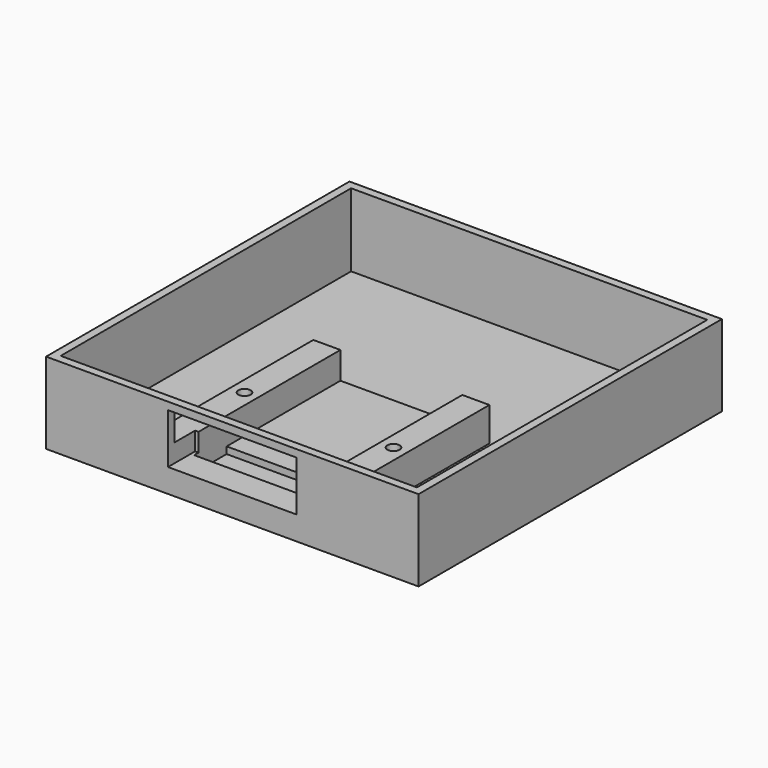
from build123d import *

# Parameters (mm, degrees)
SKETCH_W        = 55
SKETCH_H        = 56
PAD_DEPTH       = 12
SKETCH012_W     = 52.6
SKETCH012_H     = 53.6
POCKET_DEPTH    = 10.8
SKETCH013_W     = 26
SKETCH013_H     = 30
PAD010_DEPTH    = 5
SKETCH014_W     = 18
SKETCH014_H     = 6
POCKET001_DEPTH = 5
SKETCH015_W     = 18
SKETCH015_H     = 22
POCKET002_DEPTH = 4
SKETCH016_W     = 19
SKETCH016_H     = 7.4
POCKET003_DEPTH = 5
SKETCH017_R     = 0.9
POCKET004_DEPTH = 4


with BuildPart() as part:
    # Sketch → Pad (new body)
    with BuildSketch(Plane.XY):
        Rectangle(SKETCH_W, SKETCH_H)
    extrude(amount=PAD_DEPTH)

    # Sketch012 (on Face6 of Pad) → Pocket (cut)
    with BuildSketch(Plane.XY.offset(12)):
        Rectangle(SKETCH012_W, SKETCH012_H)
    extrude(amount=-POCKET_DEPTH, mode=Mode.SUBTRACT)

    # Sketch013 (on Face11 of Pocket) → Pad010 (join)
    with BuildSketch(Plane.XY.offset(1.2)):
        with Locations((0, -11.8)):
            Rectangle(SKETCH013_W, SKETCH013_H)
    extrude(amount=PAD010_DEPTH)

    # Sketch014 (on Face13 of Pad010) → Pocket001 (cut)
    with BuildSketch(Plane.XY.offset(6.2)):
        with Locations((0, -20.8)):
            Rectangle(SKETCH014_W, SKETCH014_H)
    extrude(amount=-POCKET001_DEPTH, mode=Mode.SUBTRACT)

    # Sketch015 (on Face13 of Pocket001) → Pocket002 (cut)
    with BuildSketch(Plane.XY.offset(6.2)):
        with Locations((0, -6.8)):
            Rectangle(SKETCH015_W, SKETCH015_H)
    extrude(amount=-POCKET002_DEPTH, mode=Mode.SUBTRACT)

    # Sketch016 (on Face6 of Pocket002) → Pocket003 (cut)
    with BuildSketch(Plane.XZ.offset(28)):
        with Locations((0, 7.2)):
            Rectangle(SKETCH016_W, SKETCH016_H)
    extrude(amount=-POCKET003_DEPTH, mode=Mode.SUBTRACT)

    # Sketch017 (on DatumPlane) → Pocket004 (cut)
    with BuildSketch(Plane.XY.offset(6.2)):
        with Locations((-11, -12)):
            Circle(SKETCH017_R)
        with Locations((11, -12)):
            Circle(SKETCH017_R)
    extrude(amount=-POCKET004_DEPTH, mode=Mode.SUBTRACT)


solid = part.part
